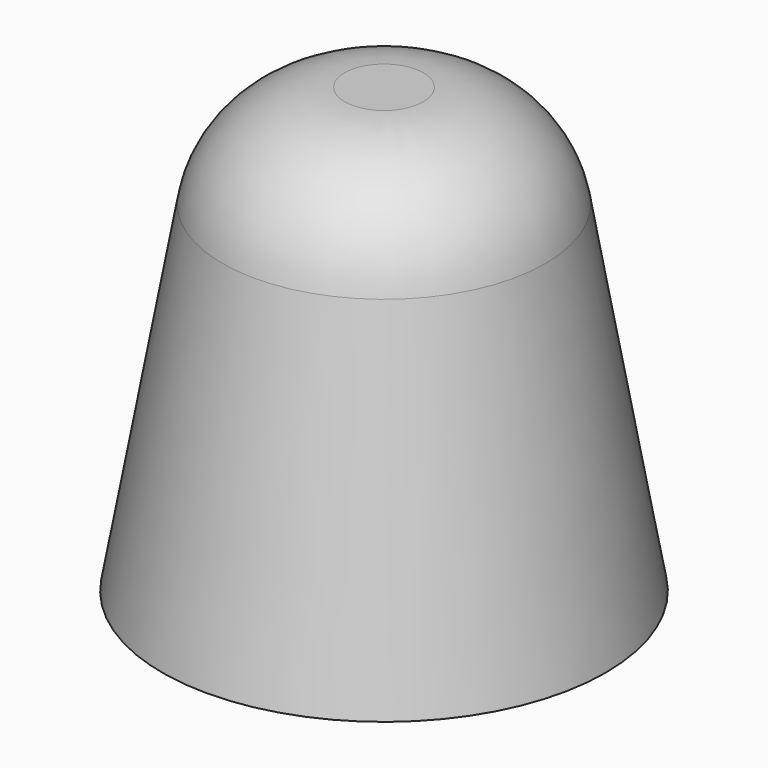
from build123d import *

# Parameters (mm, degrees)
F0_R     = 12.5
F1_DEPTH = 25
F1_TAPER = 10
F2_R     = 7
F3_T     = -1.5


with BuildPart() as f1:
    # F0 (on Top) → F1 (new body)
    with BuildSketch(Plane.XY):
        Circle(F0_R)
    extrude(amount=F1_DEPTH, taper=F1_TAPER)

    # F2
    f2_edges = [f1.edges().sort_by_distance(p)[0] for p in [
        (-8.091825, 0, 25),
    ]]
    fillet(f2_edges, radius=F2_R)

    # F3
    f3_openings = [f1.faces().sort_by_distance(p)[0] for p in [
        (0, 0, 0),
    ]]
    offset(amount=F3_T, openings=f3_openings)


solid = f1.part
